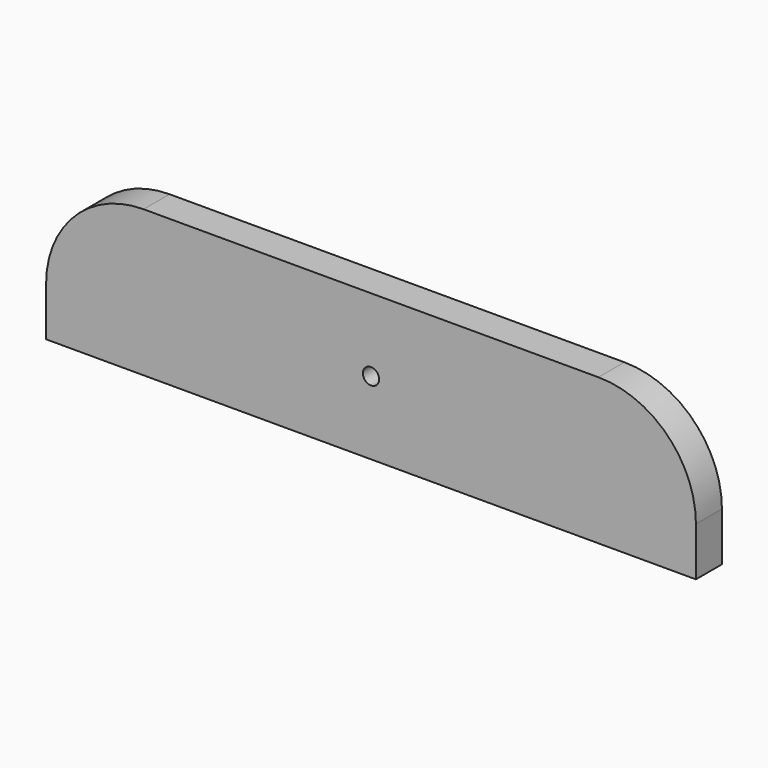
from build123d import *

# Parameters (mm, degrees)
F0_R     = 6.35
F1_DEPTH = 25.4


with BuildPart() as f1:
    # F0 (on Front) → F1 (new body)
    with BuildSketch(Plane.XZ):
        with BuildLine():
            Line((120.956651, 31.106784), (-107.643348, 31.106784))
            Line((-107.643348, 31.106784), (-171.143349, 31.106784))
            ThreePointArc((-171.143349, 31.106784), (-225.024886, 8.788321), (-247.343349, -45.093216))
            Line((-247.343349, -45.093216), (-247.343349, -83.193216))
            Line((-247.343349, -83.193216), (260.656651, -83.193216))
            Line((260.656651, -83.193216), (260.656651, -45.093216))
            ThreePointArc((260.656651, -45.093216), (238.338188, 8.788321), (184.456651, 31.106784))
            Line((184.456651, 31.106784), (120.956651, 31.106784))
        make_face()
        with Locations((6.656651, -26.043216)):
            Circle(F0_R, mode=Mode.SUBTRACT)
    extrude(amount=F1_DEPTH)


solid = f1.part
